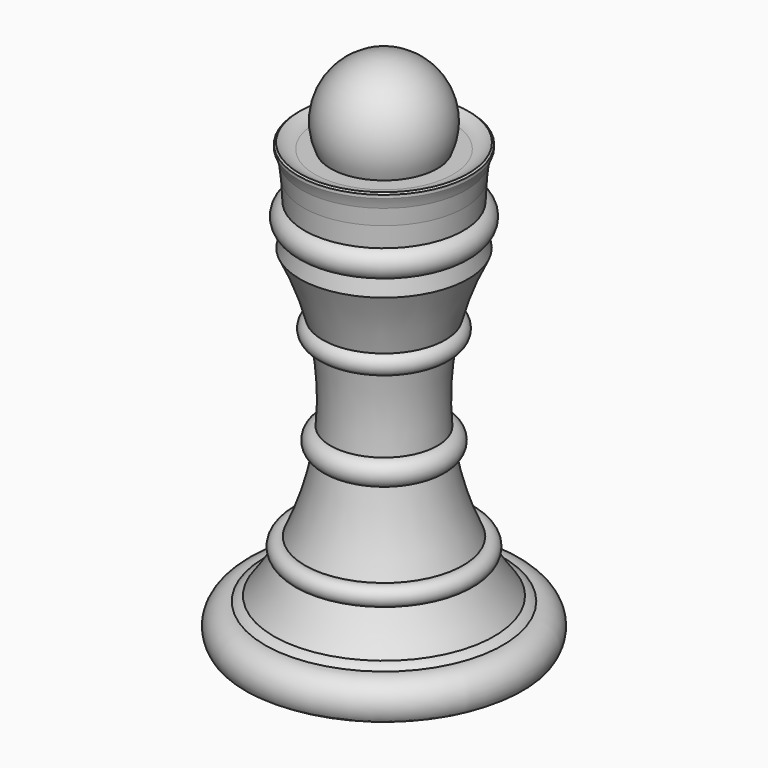
from build123d import *


with BuildPart() as f1:
    # F0 (on Front) → F1 (revolve)
    with BuildSketch(Plane.XZ):
        with BuildLine():
            Line((0, -44.1694706678), (0, -37.9232913257))
            Line((0, -37.9232913257), (0, 11.8331732228))
            Line((0, 11.8331732228), (0, 18.7871687495))
            Line((0, 18.7871687495), (-7.6877755174, 18.7871687495))
            Line((-7.6877755174, 18.7871687495), (-9.9534072849, 18.7871687495))
            ThreePointArc((-9.9534072849, 18.7871687495), (-11.1350506039, 19.0037720516), (-12.1630375258, 19.6254156893))
            Line((-12.1630375258, 19.6254156893), (-12.1647483332, 19.6239020753))
            add(Edge.make_bspline(
                [(-11.8562369038, 17.4144661634), (-11.9486954631, 18.1423229736), (-12.0529051599, 18.879294657), (-12.1647483332, 19.6239020753)],
                knots=[0.5227097993, 0.5227097993, 0.5227097993, 0.5227097993, 0.5417609488, 0.5417609488, 0.5417609488, 0.5417609488], degree=3))
            ThreePointArc((-11.8562369038, 17.4144661634), (-11.6487939305, 16.2553434456), (-11.6019889023, 15.0787350351))
            add(Edge.make_bspline(
                [(-11.4472950696, 12.1344692159), (-11.4581573066, 13.0913723572), (-11.5136699959, 14.074212518), (-11.6019889023, 15.0787350351)],
                knots=[0.4749395602, 0.4749395602, 0.4749395602, 0.4749395602, 0.5020335727, 0.5020335727, 0.5020335727, 0.5020335727], degree=3))
            add(Edge.make_bspline(
                [(-11.675667949, 8.4173418581), (-11.4991159546, 9.6023314431), (-11.4326559718, 10.8448454905), (-11.4472950696, 12.1344692159)],
                knots=[0.4384248078, 0.4384248078, 0.4384248078, 0.4384248078, 0.4749395602, 0.4749395602, 0.4749395602, 0.4749395602], degree=3))
            add(Edge.make_bspline(
                [(-12.1392925185, 6.217972822), (-11.9451603406, 6.9315038549), (-11.7880933577, 7.6627599642), (-11.675667949, 8.4173418581)],
                knots=[0.4151728136, 0.4151728136, 0.4151728136, 0.4151728136, 0.4384248078, 0.4384248078, 0.4384248078, 0.4384248078], degree=3))
            ThreePointArc((-12.1392925185, 6.217972822), (-10.2371607143, 1.9062936557), (-8.8307930125, -2.591573897))
            ThreePointArc((-8.8307930125, -2.591573897), (-8.4975042942, -4.0192092054), (-8.2143186166, -5.4576214604))
            ThreePointArc((-8.2143186166, -5.4576214604), (-7.6042943968, -10.9064444681), (-7.7103433124, -16.3882831509))
            ThreePointArc((-7.7103433124, -16.3882831509), (-7.8946875001, -18.1272849021), (-8.1513710208, -19.8570893536))
            ThreePointArc((-8.1513710208, -19.8570893536), (-9.4312040499, -25.2258757592), (-11.4049959552, -30.3800959298))
            ThreePointArc((-11.4049959552, -30.3800959298), (-11.9914223236, -31.6011847938), (-12.6169800236, -32.8026969507))
            ThreePointArc((-12.6169800236, -32.8026969507), (-14.1604628321, -35.4223535417), (-15.8896967769, -37.9232913257))
            ThreePointArc((-15.8896967769, -37.9232913257), (-16.5606490053, -38.2097775656), (-17.1511071188, -38.638275494))
            ThreePointArc((-17.1511071188, -38.638275494), (-18.1317911321, -41.7713565846), (-15.8896967769, -44.1694706678))
            Line((-15.8896967769, -44.1694706678), (0, -44.1694706678))
        make_face()
        with BuildLine():
            Line((-7.6877755174, 18.7871687495), (0, 18.7871687495))
            Line((0, 18.7871687495), (0, 30.7758384449))
            ThreePointArc((0, 30.7758384449), (-7.1209215252, 26.8829127276), (-7.6877755174, 18.7871687495))
        make_face()
        with BuildLine():
            Line((-18.0535539985, -44.1694706678), (-15.8896967769, -44.1694706678))
            ThreePointArc((-15.8896967769, -44.1694706678), (-18.1317911321, -41.7713565846), (-17.1511071188, -38.638275494))
            ThreePointArc((-17.1511071188, -38.638275494), (-20.0752613279, -40.1877519212), (-19.9908490007, -43.4959885507))
            ThreePointArc((-19.9908490007, -43.4959885507), (-19.0790648575, -43.9962990586), (-18.0535539985, -44.1694706678))
        make_face()
        with BuildLine():
            ThreePointArc((-11.4049959552, -30.3800959298), (-13.0877812051, -31.0526960058), (-12.6169800236, -32.8026969507))
            ThreePointArc((-12.6169800236, -32.8026969507), (-11.9914223236, -31.6011847938), (-11.4049959552, -30.3800959298))
        make_face()
        with BuildLine():
            add(Edge.make_bspline(
                [(-11.8562369038, 17.4144661634), (-11.9486954631, 18.1423229736), (-12.0529051599, 18.879294657), (-12.1647483332, 19.6239020753)],
                knots=[0.5227097993, 0.5227097993, 0.5227097993, 0.5227097993, 0.5417609488, 0.5417609488, 0.5417609488, 0.5417609488], degree=3))
            Line((-12.1647483332, 19.6239020753), (-12.4051754876, 19.4111873575))
            Line((-12.4051754876, 19.4111873575), (-12.4051754876, 18.9592716413))
            ThreePointArc((-12.4051754876, 18.9592716413), (-12.0937294787, 18.2000083862), (-11.8562369038, 17.4144661634))
        make_face()
        with BuildLine():
            ThreePointArc((-11.6019889023, 15.0787350351), (-11.6487939305, 16.2553434456), (-11.8562369038, 17.4144661634))
            add(Edge.make_bspline(
                [(-11.6019889023, 15.0787350351), (-11.6693876211, 15.8453152997), (-11.755891561, 16.6245226287), (-11.8562369038, 17.4144661634)],
                knots=[0.5020335727, 0.5020335727, 0.5020335727, 0.5020335727, 0.5227097993, 0.5227097993, 0.5227097993, 0.5227097993], degree=3))
        make_face()
        with BuildLine():
            ThreePointArc((-7.7103433124, -16.3882831509), (-9.3073297266, -17.9476800676), (-8.1513710208, -19.8570893536))
            ThreePointArc((-8.1513710208, -19.8570893536), (-7.8946875001, -18.1272849021), (-7.7103433124, -16.3882831509))
        make_face()
        with BuildLine():
            add(Edge.make_bspline(
                [(-11.675667949, 8.4173418581), (-11.4991159546, 9.6023314431), (-11.4326559718, 10.8448454905), (-11.4472950696, 12.1344692159)],
                knots=[0.4384248078, 0.4384248078, 0.4384248078, 0.4384248078, 0.4749395602, 0.4749395602, 0.4749395602, 0.4749395602], degree=3))
            ThreePointArc((-11.4472950696, 12.1344692159), (-12.8496274606, 10.355046651), (-11.675667949, 8.4173418581))
        make_face()
        with BuildLine():
            ThreePointArc((-8.8307930125, -2.591573897), (-9.7593379869, -4.2906241579), (-8.2143186166, -5.4576214604))
            ThreePointArc((-8.2143186166, -5.4576214604), (-8.4975042942, -4.0192092054), (-8.8307930125, -2.591573897))
        make_face()
    revolve(axis=Axis((0, 0, -9.5680612881), (0, 0, 1)))


solid = f1.part
